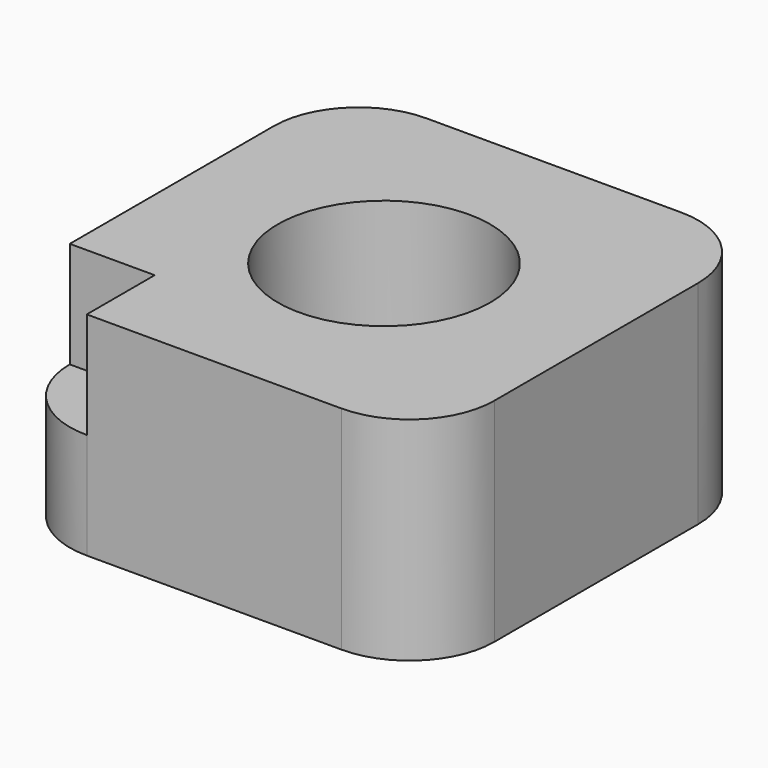
from build123d import *

# Parameters (mm, degrees)
F1_DEPTH = 50
F2_R     = 25
F3_DEPTH = 50.001
F4_W     = 20
F4_H     = 20
F5_DEPTH = 25


with BuildPart() as f1:
    # F0 (on Top) → F1 (new body)
    with BuildSketch(Plane.XY):
        with BuildLine():
            ThreePointArc((50, 30), (44.142136, 44.142136), (30, 50))
            Line((30, 50), (-30, 50))
            ThreePointArc((-30, 50), (-44.142136, 44.142136), (-50, 30))
            Line((-50, 30), (-50, -30))
            ThreePointArc((-50, -30), (-44.142136, -44.142136), (-30, -50))
            Line((-30, -50), (30, -50))
            ThreePointArc((30, -50), (44.142136, -44.142136), (50, -30))
            Line((50, -30), (50, 30))
        make_face()
    extrude(amount=F1_DEPTH)

    # F2 (on face) → F3 (cut, through all)
    with BuildSketch(Plane.XY.offset(50)):
        Circle(F2_R)
    extrude(amount=-F3_DEPTH, mode=Mode.SUBTRACT)

    # F4 (on face) → F5 (cut)
    with BuildSketch(Plane.XY.offset(50)):
        with Locations((-40, -40)):
            Rectangle(F4_W, F4_H)
    extrude(amount=-F5_DEPTH, mode=Mode.SUBTRACT)


solid = f1.part
